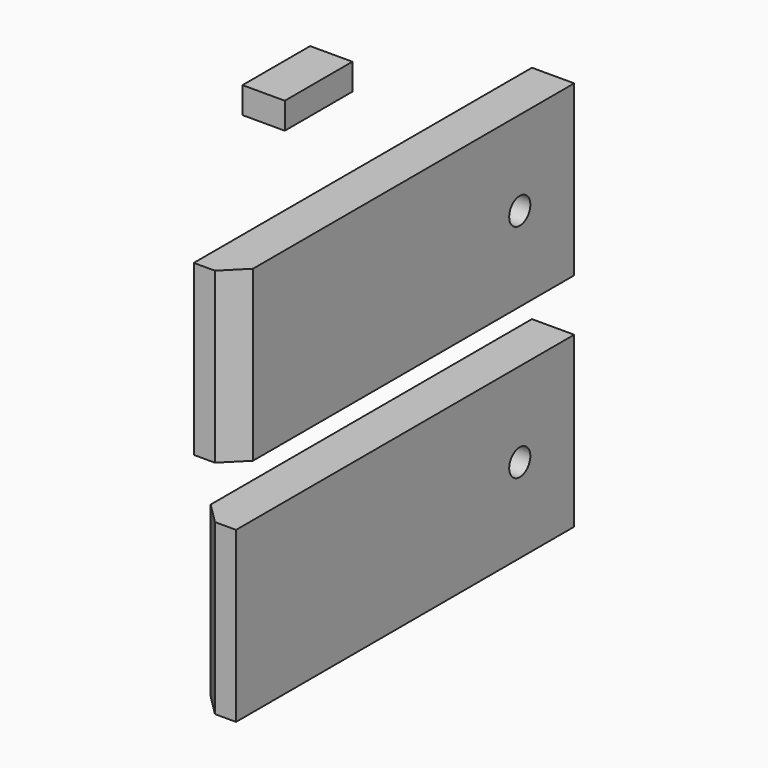
from build123d import *

# Parameters (mm, degrees)
F0_W      = 127
F0_H      = 50.8
F1_DEPTH  = 12.7
F2_SIZE   = 6.35
F3_W      = 127
F3_H      = 50.8
F4_DEPTH  = 12.7
F5_SIZE   = 6.35
F6_R      = 3.96875
F7_DEPTH  = 12.701
F8_R      = 3.96875
F9_DEPTH  = 12.701
F10_W     = 12.7
F10_H     = 25.4
F11_DEPTH = 7.9375


with BuildPart() as f1:
    # F0 (on Right) → F1 (new body)
    with BuildSketch(Plane.YZ):
        Rectangle(F0_W, F0_H)
    extrude(amount=F1_DEPTH)

    # F2
    f2_edges = [f1.edges().sort_by_distance(p)[0] for p in [
        (12.7, -63.5, 0),
    ]]
    chamfer(f2_edges, length=F2_SIZE)

    # F6 (on face) → F7 (cut, through all)
    with BuildSketch(Plane.YZ.offset(12.7)):
        with Locations((43.053, 0)):
            Circle(F6_R)
    extrude(amount=-F7_DEPTH, mode=Mode.SUBTRACT)


with BuildPart() as f4:
    # F3 (on Right) → F4 (new body)
    with BuildSketch(Plane.YZ):
        with Locations((0, -66.498213)):
            Rectangle(F3_W, F3_H)
    extrude(amount=F4_DEPTH)

    # F5
    f5_edges = [f4.edges().sort_by_distance(p)[0] for p in [
        (0, -63.5, -66.498213),
    ]]
    chamfer(f5_edges, length=F5_SIZE)

    # F8 (on face) → F9 (cut, through all)
    with BuildSketch(Plane.YZ.offset(12.7)):
        with Locations((43.053, -66.498213)):
            Circle(F8_R)
    extrude(amount=-F9_DEPTH, mode=Mode.SUBTRACT)


with BuildPart() as f11:
    # F10 (on Top) → F11 (new body)
    with BuildSketch(Plane.XY):
        with Locations((-62.107756, 53.061553)):
            Rectangle(F10_W, F10_H)
    extrude(amount=F11_DEPTH)


solid = Compound([f1.part, f4.part, f11.part])
